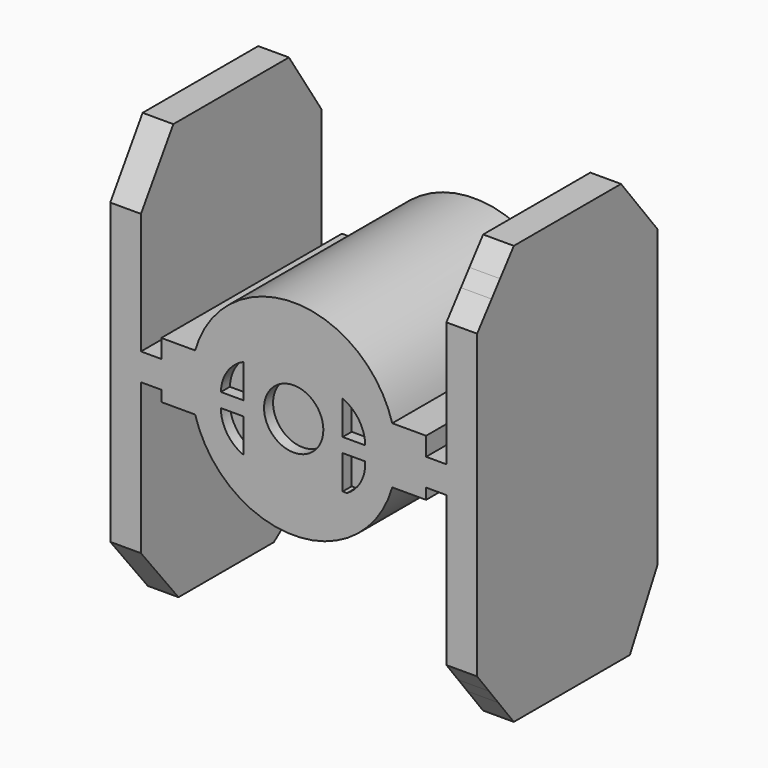
from build123d import *

# Parameters (mm, degrees)
F0_W     = 2.286
F0_H     = 3.048
F1_DEPTH = 25.4
F3_DEPTH = 12.7
F5_DEPTH = 12.7
F6_R     = 3.335139
F7_DEPTH = 1.27


with BuildPart() as f1:
    # F0 (on Front) → F1 (new body)
    with BuildSketch(Plane.XZ):
        Polygon((42.583782, 23.443561), (42.583782, 0), (46.038182, 0), (46.038182, 47.156759), (42.583782, 47.156759), (42.583782, 26.491561), align=None)
        Polygon((4.761818, 47.156759), (4.761818, 0), (8.216218, 0), (8.216218, 23.443561), (8.216218, 26.491561), (8.216218, 47.156759), align=None)
        with BuildLine():
            ThreePointArc((14.312218, 28.575), (13.86659, 25.4), (14.312218, 22.225))
            ThreePointArc((14.312218, 22.225), (25.4, 13.86659), (36.487782, 22.225))
            ThreePointArc((36.487782, 22.225), (36.82146, 23.79694), (36.93341, 25.4))
            ThreePointArc((36.93341, 25.4), (36.82146, 27.00306), (36.487782, 28.575))
            ThreePointArc((36.487782, 28.575), (25.4, 36.93341), (14.312218, 28.575))
        make_face()
        with Locations((9.359218, 24.967561)):
            Rectangle(F0_W, F0_H)
        with BuildLine():
            Line((10.502218, 26.491561), (10.502218, 23.443561))
            Line((10.502218, 23.443561), (10.502218, 22.225))
            Line((10.502218, 22.225), (14.312218, 22.225))
            ThreePointArc((14.312218, 22.225), (13.86659, 25.4), (14.312218, 28.575))
            Line((14.312218, 28.575), (10.502218, 28.575))
            Line((10.502218, 28.575), (10.502218, 26.491561))
        make_face()
        with BuildLine():
            Line((40.297782, 22.225), (40.297782, 23.443561))
            Line((40.297782, 23.443561), (40.297782, 26.491561))
            Line((40.297782, 26.491561), (40.297782, 28.575))
            Line((40.297782, 28.575), (36.487782, 28.575))
            ThreePointArc((36.487782, 28.575), (36.82146, 27.00306), (36.93341, 25.4))
            ThreePointArc((36.93341, 25.4), (36.82146, 23.79694), (36.487782, 22.225))
            Line((36.487782, 22.225), (40.297782, 22.225))
        make_face()
        with Locations((41.440782, 24.967561)):
            Rectangle(F0_W, F0_H)
    extrude(amount=F1_DEPTH)

    # F2 (on face) → F3 (cut)
    with BuildSketch(Plane.YZ.offset(46.038182)):
        Polygon((-25.4, 47.156759), (-25.4, 40.552066), (-23.363257, 43.158547), (-22.17105, 44.684251), (-20.238997, 47.156759), align=None)
        Polygon((0, 47.156759), (-5.161003, 47.156759), (-2.580502, 43.854412), (-1.72774, 42.763107), (0, 40.552066), align=None)
        Polygon((-1.957984, 3.705507), (-3.915968, 0), (0, 0), (0, 7.411013), (-0.994495, 5.528921), align=None)
        Polygon((-23.728574, 4.465718), (-25.4, 6.604693), (-25.4, 0), (-20.238997, 0), (-22.428798, 2.802356), align=None)
    extrude(amount=-F3_DEPTH, mode=Mode.SUBTRACT)

    # F4 (on face) → F5 (cut)
    with BuildSketch(Plane(origin=(4.761818, 0, 0), x_dir=(0, -1, 0), z_dir=(-1, 0, 0))):
        Polygon((0, 47.156759), (0, 40.144437), (4.59187, 47.156759), align=None)
        Polygon((25.4, 47.156759), (20.84787, 47.156759), (25.4, 40.118574), align=None)
        Polygon((25.4, 6.510113), (20.120194, 0), (25.4, 0), align=None)
        Polygon((6.716533, 0), (0, 5.01459), (0, 0), align=None)
    extrude(amount=-F5_DEPTH, mode=Mode.SUBTRACT)

    # F6 (on face) → F7 (cut)
    with BuildSketch(Plane.XZ.offset(25.4)):
        with Locations((25.4, 25.4)):
            Circle(F6_R)
        with BuildLine():
            ThreePointArc((19.747045, 29.21), (17.926817, 27.671819), (17.207045, 25.4))
            Line((17.207045, 25.4), (19.747045, 25.4))
            Line((19.747045, 25.4), (19.747045, 29.21))
        make_face()
        with BuildLine():
            Line((30.909679, 29.21), (30.909679, 25.4))
            Line((30.909679, 25.4), (33.449679, 25.4))
            ThreePointArc((33.449679, 25.4), (32.741123, 27.679296), (30.909679, 29.21))
        make_face()
        with BuildLine():
            Line((19.747045, 19.998197), (19.747045, 23.808197))
            Line((19.747045, 23.808197), (17.207045, 23.808197))
            ThreePointArc((17.207045, 23.808197), (17.898284, 21.517356), (19.747045, 19.998197))
        make_face()
        with BuildLine():
            Line((33.449679, 23.808197), (30.909679, 23.808197))
            Line((30.909679, 23.808197), (30.909679, 19.998197))
            Line((30.909679, 19.998197), (31.397671, 19.998197))
            ThreePointArc((31.397671, 19.998197), (32.955333, 21.616853), (33.449679, 23.808197))
        make_face()
    extrude(amount=-F7_DEPTH, mode=Mode.SUBTRACT)


solid = f1.part
